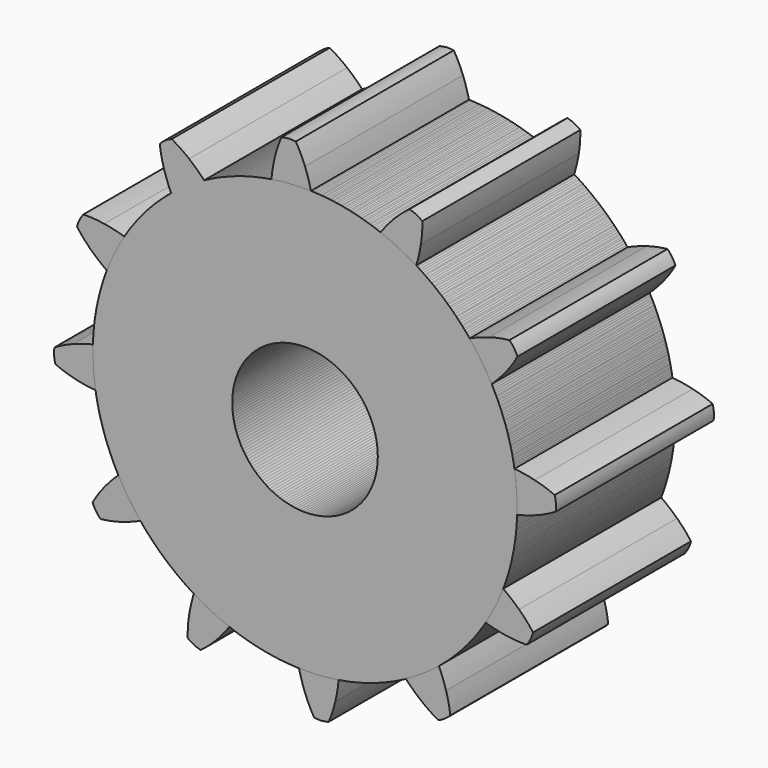
from build123d import *

# Parameters (mm, degrees)
F0_R     = 9.22657
F1_DEPTH = 25
F2_COUNT = 12


with BuildPart() as f1:
    # F0 (on Front) → F1 (new body)
    with BuildSketch(Plane.XZ):
        with BuildLine():
            ThreePointArc((1.625558, 27.578871), (-11.543988, -19.38474), (32.7407, 1.057474))
            ThreePointArc((32.7407, 1.057474), (25.13905, 19.78134), (6.636706, 27.907319))
            ThreePointArc((6.636706, 27.907319), (4.123439, 27.860464), (1.625558, 27.578871))
        make_face()
        with Locations((5.8802, 1.057474)):
            Circle(F0_R, mode=Mode.SUBTRACT)
        with BuildLine():
            ThreePointArc((1.625558, 27.578871), (4.123439, 27.860464), (6.636706, 27.907319))
            ThreePointArc((6.636706, 27.907319), (6.301624, 29.164028), (5.8802, 30.394474))
            ThreePointArc((5.8802, 30.394474), (5.349523, 31.616532), (4.711151, 32.785944))
            ThreePointArc((4.711151, 32.785944), (3.798121, 32.823865), (2.897851, 32.667094))
            ThreePointArc((2.897851, 32.667094), (2.41758, 31.424362), (2.050953, 30.143492))
            ThreePointArc((2.050953, 30.143492), (1.79374, 28.868565), (1.625558, 27.578871))
        make_face()
    extrude(amount=F1_DEPTH)


with BuildPart() as f2_1:
    # F2: instance of F1
    add(f1.part.rotate(Axis((5.8802, 0, 1.057474), (0, 1, 0)), 1 * 360 / F2_COUNT))


with BuildPart() as f2_2:
    # F2: instance of F1
    add(f1.part.rotate(Axis((5.8802, 0, 1.057474), (0, 1, 0)), 2 * 360 / F2_COUNT))


with BuildPart() as f2_3:
    # F2: instance of F1
    add(f1.part.rotate(Axis((5.8802, 0, 1.057474), (0, 1, 0)), 3 * 360 / F2_COUNT))


with BuildPart() as f2_4:
    # F2: instance of F1
    add(f1.part.rotate(Axis((5.8802, 0, 1.057474), (0, 1, 0)), 4 * 360 / F2_COUNT))


with BuildPart() as f2_5:
    # F2: instance of F1
    add(f1.part.rotate(Axis((5.8802, 0, 1.057474), (0, 1, 0)), 5 * 360 / F2_COUNT))


with BuildPart() as f2_6:
    # F2: instance of F1
    add(f1.part.rotate(Axis((5.8802, 0, 1.057474), (0, 1, 0)), 6 * 360 / F2_COUNT))


with BuildPart() as f2_7:
    # F2: instance of F1
    add(f1.part.rotate(Axis((5.8802, 0, 1.057474), (0, 1, 0)), 7 * 360 / F2_COUNT))


with BuildPart() as f2_8:
    # F2: instance of F1
    add(f1.part.rotate(Axis((5.8802, 0, 1.057474), (0, 1, 0)), 8 * 360 / F2_COUNT))


with BuildPart() as f2_9:
    # F2: instance of F1
    add(f1.part.rotate(Axis((5.8802, 0, 1.057474), (0, 1, 0)), 9 * 360 / F2_COUNT))


with BuildPart() as f2_10:
    # F2: instance of F1
    add(f1.part.rotate(Axis((5.8802, 0, 1.057474), (0, 1, 0)), 10 * 360 / F2_COUNT))


with BuildPart() as f2_11:
    # F2: instance of F1
    add(f1.part.rotate(Axis((5.8802, 0, 1.057474), (0, 1, 0)), 11 * 360 / F2_COUNT))


solid = Compound([f1.part, f2_1.part, f2_2.part, f2_3.part, f2_4.part, f2_5.part, f2_6.part, f2_7.part, f2_8.part, f2_9.part, f2_10.part, f2_11.part])
